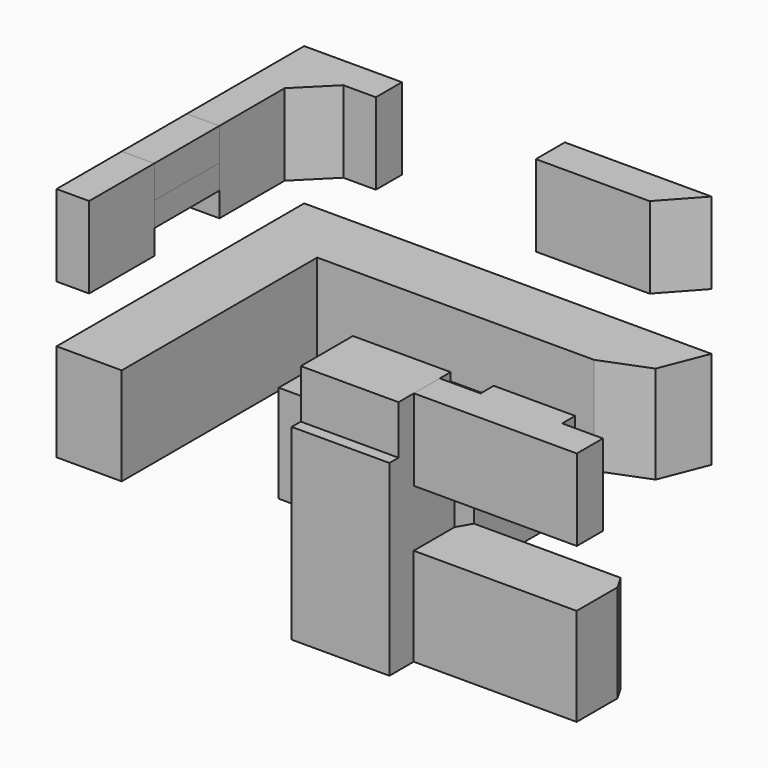
from build123d import *

# Parameters (mm, degrees)
F3_W      = 609.6
F3_H      = 762
F3_H_2    = 457.2
F3_W_2    = 304.8
F3_H_3    = 609.6
F3_W_3    = 914.4
F3_W_4    = 457.2
F8_DEPTH  = 914.4
F4_W      = 304.8
F4_H      = 762
F4_H_2    = 304.8
F4_H_3    = 339.06725
F9_DEPTH  = 762
F5_W      = 685.8
F5_H      = 609.6
F10_DEPTH = 914.4
F6_W      = 381
F6_H      = 302.608234
F6_H_2    = 304.8
F11_DEPTH = 762
F7_W      = 914.4
F7_H      = 762
F12_DEPTH = 1752.6
F13_W     = 914.4
F13_H     = 609.6
F15_DEPTH = 457.2
F14_W     = 304.8
F14_H     = 762
F16_DEPTH = 304.8
F17_W     = 304.8
F17_H     = 762
F18_DEPTH = 228.6
F20_W     = 1828.8
F20_H     = 863.6
F21_DEPTH = 914.4


with BuildPart() as f8:
    # F3 (on Top) → F8 (new body)
    with BuildSketch(Plane.XY):
        with Locations((304.8, -2514.6)):
            Rectangle(F3_W, F3_H)
        with Locations((304.8, -1752.6)):
            Rectangle(F3_W, F3_H)
        with Locations((304.8, -1143)):
            Rectangle(F3_W, F3_H_2)
        Polygon((0, 0), (0, -914.4), (609.6, -914.4), (609.6, -609.6), (914.4, -609.6), (914.4, 0), align=None)
        with Locations((1066.8, -304.8)):
            Rectangle(F3_W_2, F3_H_3)
        with Locations((1676.4, -304.8)):
            Rectangle(F3_W_3, F3_H_3)
        with Locations((2438.4, -304.8)):
            Rectangle(F3_W, F3_H_3)
        with Locations((2971.8, -304.8)):
            Rectangle(F3_W_4, F3_H_3)
        Polygon((3810, 0), (3200.4, 0), (3200.4, -609.6), (3637.621718, -437.221718), align=None)
    extrude(amount=F8_DEPTH)


with BuildPart() as f9:
    # F4 (on offset) → F9 (new body)
    with BuildSketch(Plane.XY.offset(1447.8)):
        with Locations((152.4, -2514.6)):
            Rectangle(F4_W, F4_H)
        with Locations((152.4, -990.6)):
            Rectangle(F4_W, F4_H)
        with Locations((762, -152.4)):
            Rectangle(F4_W, F4_H_2)
        Polygon((0, 0), (0, -609.6), (304.8, -609.6), (609.6, -304.8), (609.6, 0), align=None)
        Polygon((3505.2, -336.013854), (3810, 0), (3505.2, 0), align=None)
        with Locations((2590.8, -169.533625)):
            Rectangle(F4_W, F4_H_3)
        Polygon((3505.2, -339.06725), (3505.2, -336.013854), (3505.2, 0), (2743.2, 0), (2743.2, -339.06725), align=None)
    extrude(amount=F9_DEPTH)


with BuildPart() as f10:
    # F5 (on Top) → F10 (new body)
    with BuildSketch(Plane.XY):
        Polygon((4133.85, -3181.35), (4057.65, -3313.332272), (4057.65, -3790.95), (4133.85, -3790.95), align=None)
        with Locations((4476.75, -3486.15)):
            Rectangle(F5_W, F5_H)
        with Locations((5162.55, -3486.15)):
            Rectangle(F5_W, F5_H)
        Polygon((5581.65, -3313.332272), (5505.45, -3181.35), (5505.45, -3790.95), (5581.65, -3790.95), align=None)
    extrude(amount=F10_DEPTH)


with BuildPart() as f11:
    # F6 (on offset) → F11 (new body)
    with BuildSketch(Plane.XY.offset(1447.8)):
        with Locations((4248.15, -3637.454117)):
            Rectangle(F6_W, F6_H)
        Polygon((4438.65, -3486.15), (4438.65, -3788.758234), (5200.65, -3788.758234), (5200.65, -3483.958234), (5200.65, -3331.558234), (4438.65, -3331.558234), align=None)
        with Locations((5391.15, -3636.358234)):
            Rectangle(F6_W, F6_H_2)
    extrude(amount=F11_DEPTH)


with BuildPart() as f12:
    # F7 (on Top) → F12 (new body)
    with BuildSketch(Plane.XY):
        with Locations((3600.426878, -3694.43)):
            Rectangle(F7_W, F7_H)
    extrude(amount=F12_DEPTH)

    # F13 (on face) → F15 (join)
    with BuildSketch(Plane.XY.offset(1752.6)):
        with Locations((3600.426878, -3663.920198)):
            Rectangle(F13_W, F13_H)
    extrude(amount=F15_DEPTH)


with BuildPart() as f16:
    # F14 (on face) → F16 (new body)
    with BuildSketch(Plane.XY.offset(2209.8)):
        with Locations((152.4, -1752.6)):
            Rectangle(F14_W, F14_H)
    extrude(amount=-F16_DEPTH)


with BuildPart() as f18:
    # F17 (on face) → F18 (new body)
    with BuildSketch(Plane(origin=(0, 0, 1905), x_dir=(1, 0, 0), z_dir=(0, 0, -1))):
        with Locations((152.4, 1752.6)):
            Rectangle(F17_W, F17_H)
    extrude(amount=F18_DEPTH)


with BuildPart() as f21:
    # F20 (on Top) → F21 (new body)
    with BuildSketch(Plane.XY):
        with Locations((2590.8, -1961.515)):
            Rectangle(F20_W, F20_H)
    extrude(amount=F21_DEPTH)


solid = Compound([f8.part, f9.part, f10.part, f11.part, f12.part, f16.part, f18.part, f21.part])
